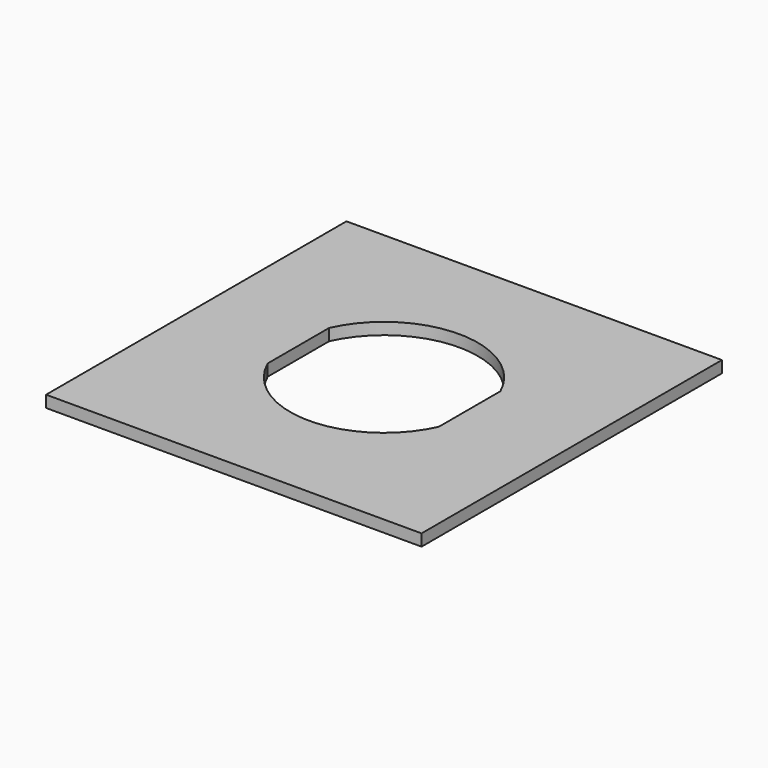
from build123d import *

# Parameters (mm, degrees)
SKETCH_W     = 32
SKETCH_H     = 32
SKETCH_R     = 8
PAD_DEPTH    = 1
SKETCH001_W  = 2
SKETCH001_H  = 8
PAD001_DEPTH = 1


with BuildPart() as part:
    # Sketch → Pad (new body)
    with BuildSketch(Plane.XY):
        Rectangle(SKETCH_W, SKETCH_H)
        Circle(SKETCH_R, mode=Mode.SUBTRACT)
    extrude(amount=PAD_DEPTH)

    # Sketch001 (on Face7 of Pad) → Pad001 (join)
    with BuildSketch(Plane.XY.offset(1)):
        with Locations((-8.3, 0)):
            Rectangle(SKETCH001_W, SKETCH001_H)
        with Locations((8.3, 0)):
            Rectangle(SKETCH001_W, SKETCH001_H)
    extrude(amount=-PAD001_DEPTH)


solid = part.part
